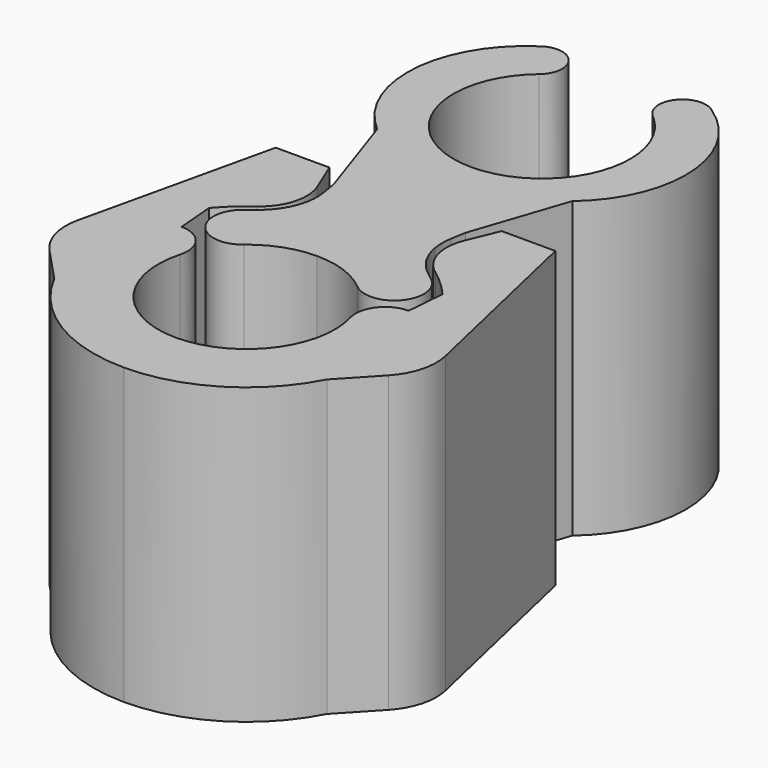
from build123d import *

# Parameters (mm, degrees)
F1_DEPTH = 5
F2_DEPTH = 5
F3_DEPTH = 5


with BuildPart() as f1:
    # F0 (on Top) → F1 (new body)
    with BuildSketch(Plane.XY):
        with BuildLine():
            Line((0, 1.5), (0, 2))
            Line((0, 2), (0, 2.6))
            Line((0, 2.6), (0, 3.047834))
            Line((0, 3.047834), (0, 4.768772))
            ThreePointArc((0, 4.768772), (-1.409539, 5.755742), (-0.964181, 7.417838))
            ThreePointArc((-0.964181, 7.417838), (-0.914879, 7.981371), (-1.478412, 8.030674))
            ThreePointArc((-1.478412, 8.030674), (-2.35988, 6.481458), (-1.65526, 4.844214))
            Line((-1.65526, 4.844214), (-1.118016, 3.250457))
            Line((-1.118016, 3.250457), (-1.074608, 3.001549))
            ThreePointArc((-1.074608, 3.001549), (-1.059742, 2.827399), (-1.075426, 2.65332))
            ThreePointArc((-1.075426, 2.65332), (-1.126488, 2.470524), (-1.211167, 2.300668))
            ThreePointArc((-1.211167, 2.300668), (-1.327748, 2.148434), (-1.471242, 2.021249))
            ThreePointArc((-1.471242, 2.021249), (-1.54002, 1.969349), (-1.606969, 1.915111))
            ThreePointArc((-1.606969, 1.915111), (-1.668597, 1.210695), (-0.964181, 1.149067))
            ThreePointArc((-0.964181, 1.149067), (-0.51303, 1.409539), (0, 1.5))
        make_face()
    extrude(amount=F1_DEPTH)

    # F5: F1 across plane


with BuildPart() as f2:
    # F0 (on Top) → F2 (new body)
    with BuildSketch(Plane.XY):
        with BuildLine():
            ThreePointArc((0, -1.5), (-1.19344, -0.90868), (-1.445941, 0.399067))
            ThreePointArc((-1.445941, 0.399067), (-1.530108, 0.834982), (-1.927922, 1.032089))
            Line((-1.927922, 1.032089), (-1.98219, 1.682534))
            ThreePointArc((-1.98219, 1.682534), (-1.763353, 1.910651), (-1.518449, 2.110524))
            ThreePointArc((-1.518449, 2.110524), (-1.216168, 2.541111), (-1.246668, 3.066324))
            Line((-1.246668, 3.066324), (-1.462441, 3.586727))
            Line((-1.462441, 3.586727), (-2.373682, 3.586727))
            Line((-2.373682, 3.586727), (-3.120906, 0.320398))
            ThreePointArc((-3.120906, 0.320398), (-3.111491, -0.163373), (-2.876052, -0.586093))
            Line((-2.876052, -0.586093), (-2.313016, -1.187417))
            ThreePointArc((-2.313016, -1.187417), (-1.355123, -2.218928), (0, -2.6))
            Line((0, -2.6), (0, -2.5))
            Line((0, -2.5), (0, -1.5))
        make_face()
    extrude(amount=F2_DEPTH)

    # F0 (on Top) → F3 (join)
    with BuildSketch(Plane.XY):
        with BuildLine():
            ThreePointArc((0, -1.5), (-1.19344, -0.90868), (-1.445941, 0.399067))
            ThreePointArc((-1.445941, 0.399067), (-1.530108, 0.834982), (-1.927922, 1.032089))
            Line((-1.927922, 1.032089), (-1.98219, 1.682534))
            ThreePointArc((-1.98219, 1.682534), (-1.763353, 1.910651), (-1.518449, 2.110524))
            ThreePointArc((-1.518449, 2.110524), (-1.216168, 2.541111), (-1.246668, 3.066324))
            Line((-1.246668, 3.066324), (-1.462441, 3.586727))
            Line((-1.462441, 3.586727), (-2.373682, 3.586727))
            Line((-2.373682, 3.586727), (-3.120906, 0.320398))
            ThreePointArc((-3.120906, 0.320398), (-3.111491, -0.163373), (-2.876052, -0.586093))
            Line((-2.876052, -0.586093), (-2.313016, -1.187417))
            ThreePointArc((-2.313016, -1.187417), (-1.355123, -2.218928), (0, -2.6))
            Line((0, -2.6), (0, -2.5))
            Line((0, -2.5), (0, -1.5))
        make_face()
    extrude(amount=F3_DEPTH)

    # F4: F2 across plane


with BuildPart() as f2_1:
    add(f2.part)
    add(f2.part.mirror(Plane.YZ))


with BuildPart() as f1_1:
    add(f1.part)
    add(f1.part.mirror(Plane.YZ))


solid = Compound([f2_1.part, f1_1.part])
